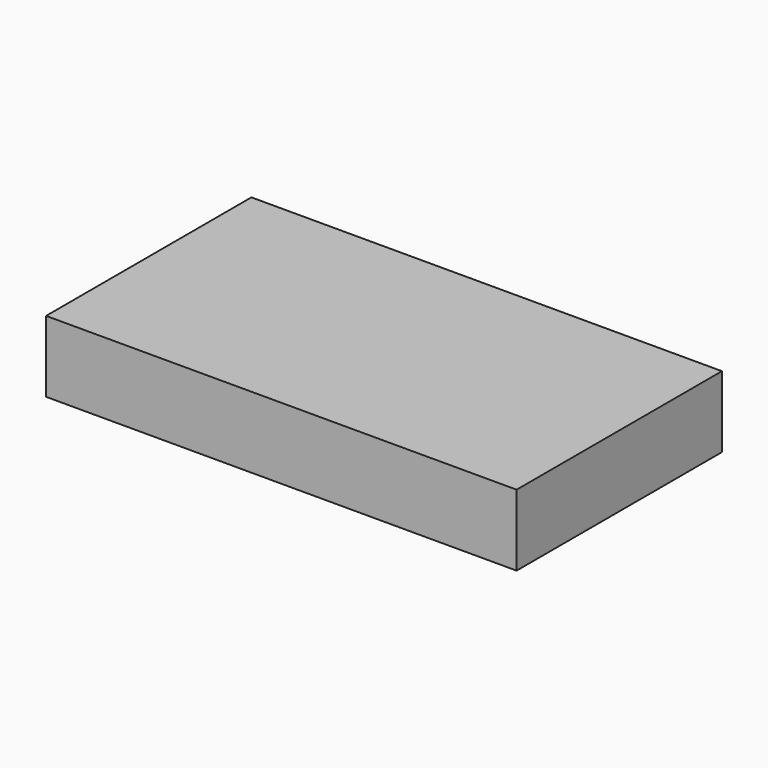
from build123d import *

# Parameters (mm, degrees)
CIRCLE001_R      = 0.5
EXTRUDE094_DEPTH = 10
CIRCLE002_R      = 0.5
EXTRUDE095_DEPTH = 10
CIRCLE003_R      = 0.5
EXTRUDE096_DEPTH = 10
RECTANGLE_W      = 66
RECTANGLE_H      = 36
EXTRUDE097_DEPTH = 10
CIRCLE_R         = 0.5
EXTRUDE093_DEPTH = 10


with BuildPart() as extrude094:
    # Circle001 → Extrude094 (new body)
    with BuildSketch(Plane(origin=(130.060043, -64.785744, 0), x_dir=(1, 0, 0), z_dir=(0, 0, 1))):
        Circle(CIRCLE001_R)
    extrude(amount=EXTRUDE094_DEPTH)


with BuildPart() as extrude095:
    # Circle002 → Extrude095 (new body)
    with BuildSketch(Plane(origin=(70.798393, -64.7696, 0), x_dir=(1, 0, 0), z_dir=(0, 0, 1))):
        Circle(CIRCLE002_R)
    extrude(amount=EXTRUDE095_DEPTH)


with BuildPart() as extrude096:
    # Circle003 → Extrude096 (new body)
    with BuildSketch(Plane(origin=(70.79007, -35.800797, 0), x_dir=(1, 0, 0), z_dir=(0, 0, 1))):
        Circle(CIRCLE003_R)
    extrude(amount=EXTRUDE096_DEPTH)


with BuildPart() as extrude097:
    # Rectangle → Extrude097 (new body)
    with BuildSketch(Plane(origin=(67.836318, -67.212706, 0), x_dir=(1, 0, 0), z_dir=(0, 0, 1))):
        with Locations((33, 18)):
            Rectangle(RECTANGLE_W, RECTANGLE_H)
    extrude(amount=EXTRUDE097_DEPTH)


with BuildPart() as pcb:
    # Circle → Extrude093 (new body)
    with BuildSketch(Plane(origin=(130.059311, -35.555641, 0), x_dir=(1, 0, 0), z_dir=(0, 0, 1))):
        Circle(CIRCLE_R)
    extrude(amount=EXTRUDE093_DEPTH)

    # Fusion003: union Extrude094, Extrude095, Extrude096, Extrude097
    add(extrude094.part)
    add(extrude095.part)
    add(extrude096.part)
    add(extrude097.part)


with BuildPart() as pcb_1:
    # Fusion003 placement: moved
    add(pcb.part.moved(Location((-99.341595, 34.609312, 23))))


solid = pcb_1.part
